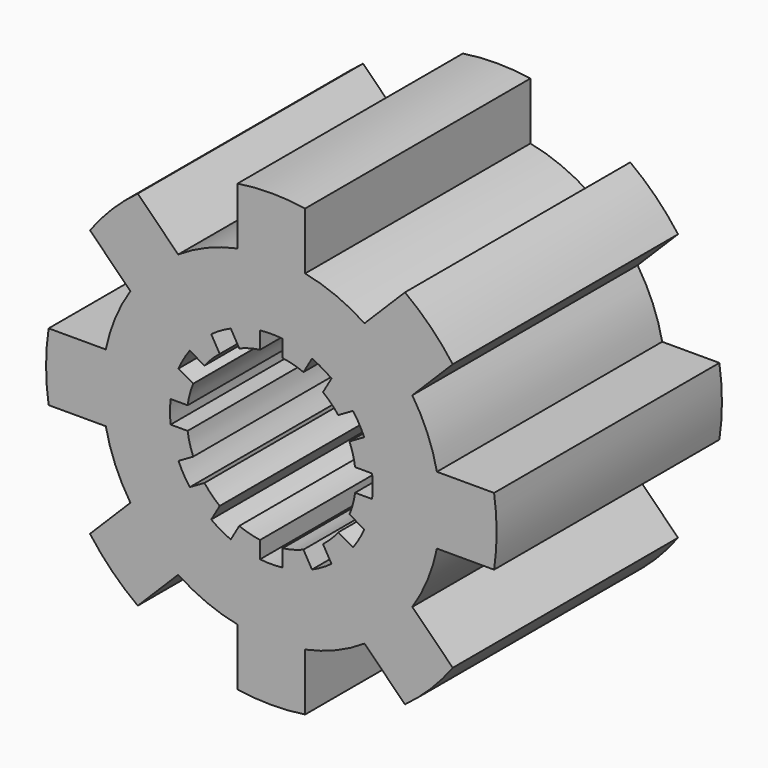
from build123d import *

# Parameters (mm, degrees)
F2_DEPTH = 25
F3_DEPTH = 25


with BuildPart() as f2:
    # F1 (on Front) → F2 (new body)
    with BuildSketch(Plane.XZ):
        with BuildLine():
            ThreePointArc((14.696938, -3), (14.924042, -1.507634), (15, 0))
            ThreePointArc((15, 0), (14.924042, 1.507634), (14.696938, 3))
            ThreePointArc((14.696938, 3), (13.858193, 5.740251), (12.513625, 8.270985))
            ThreePointArc((12.513625, 8.270985), (10.606602, 10.606602), (8.270985, 12.513625))
            ThreePointArc((8.270985, 12.513625), (5.740251, 13.858193), (3, 14.696938))
            ThreePointArc((3, 14.696938), (0, 15), (-3, 14.696938))
            ThreePointArc((-3, 14.696938), (-5.740251, 13.858193), (-8.270985, 12.513625))
            ThreePointArc((-8.270985, 12.513625), (-10.606602, 10.606602), (-12.513625, 8.270985))
            ThreePointArc((-12.513625, 8.270985), (-13.858193, 5.740251), (-14.696938, 3))
            ThreePointArc((-14.696938, 3), (-15, 0), (-14.696938, -3))
            ThreePointArc((-14.696938, -3), (-13.858193, -5.740251), (-12.513625, -8.270985))
            ThreePointArc((-12.513625, -8.270985), (-10.606602, -10.606602), (-8.270985, -12.513625))
            ThreePointArc((-8.270985, -12.513625), (-5.740251, -13.858193), (-3, -14.696938))
            ThreePointArc((-3, -14.696938), (0, -15), (3, -14.696938))
            ThreePointArc((3, -14.696938), (5.740251, -13.858193), (8.270985, -12.513625))
            ThreePointArc((8.270985, -12.513625), (10.606602, -10.606602), (12.513625, -8.270985))
            ThreePointArc((12.513625, -8.270985), (13.858193, -5.740251), (14.696938, -3))
        make_face()
        with BuildLine():
            ThreePointArc((-12.513625, 8.270985), (-10.606602, 10.606602), (-8.270985, 12.513625))
            Line((-8.270985, 12.513625), (-11.860811, 16.103452))
            ThreePointArc((-11.860811, 16.103452), (-14.142136, 14.142136), (-16.103452, 11.860811))
            Line((-16.103452, 11.860811), (-12.513625, 8.270985))
        make_face()
        with BuildLine():
            ThreePointArc((-14.696938, -3), (-15, 0), (-14.696938, 3))
            Line((-14.696938, 3), (-19.77372, 3))
            ThreePointArc((-19.77372, 3), (-20, 0), (-19.77372, -3))
            Line((-19.77372, -3), (-14.696938, -3))
        make_face()
        with BuildLine():
            Line((-11.860811, -16.103452), (-8.270985, -12.513625))
            ThreePointArc((-8.270985, -12.513625), (-10.606602, -10.606602), (-12.513625, -8.270985))
            Line((-12.513625, -8.270985), (-16.103452, -11.860811))
            ThreePointArc((-16.103452, -11.860811), (-14.142136, -14.142136), (-11.860811, -16.103452))
        make_face()
        with BuildLine():
            Line((3, -19.77372), (3, -14.696938))
            ThreePointArc((3, -14.696938), (0, -15), (-3, -14.696938))
            Line((-3, -14.696938), (-3, -19.77372))
            ThreePointArc((-3, -19.77372), (0, -20), (3, -19.77372))
        make_face()
        with BuildLine():
            Line((16.103452, -11.860811), (12.513625, -8.270985))
            ThreePointArc((12.513625, -8.270985), (10.606602, -10.606602), (8.270985, -12.513625))
            Line((8.270985, -12.513625), (11.860811, -16.103452))
            ThreePointArc((11.860811, -16.103452), (14.142136, -14.142136), (16.103452, -11.860811))
        make_face()
        with BuildLine():
            ThreePointArc((14.696938, 3), (14.924042, 1.507634), (15, 0))
            ThreePointArc((15, 0), (14.924042, -1.507634), (14.696938, -3))
            Line((14.696938, -3), (19.77372, -3))
            ThreePointArc((19.77372, -3), (20, 0), (19.77372, 3))
            Line((19.77372, 3), (14.696938, 3))
        make_face()
        with BuildLine():
            ThreePointArc((8.270985, 12.513625), (10.606602, 10.606602), (12.513625, 8.270985))
            Line((12.513625, 8.270985), (16.103452, 11.860811))
            ThreePointArc((16.103452, 11.860811), (14.142136, 14.142136), (11.860811, 16.103452))
            Line((11.860811, 16.103452), (8.270985, 12.513625))
        make_face()
        with BuildLine():
            ThreePointArc((-3, 14.696938), (0, 15), (3, 14.696938))
            Line((3, 14.696938), (3, 19.77372))
            ThreePointArc((3, 19.77372), (0, 20), (-3, 19.77372))
            Line((-3, 19.77372), (-3, 14.696938))
        make_face()
    extrude(amount=F2_DEPTH)

    # F0 (on Front) → F3 (cut)
    with BuildSketch(Plane.XZ):
        with BuildLine():
            Line((-5.338161, 7.245967), (-4.582543, 5.937197))
            ThreePointArc((-4.582543, 5.937197), (-5.303301, 5.303301), (-5.937197, 4.582543))
            Line((-5.937197, 4.582543), (-7.245967, 5.338161))
            ThreePointArc((-7.245967, 5.338161), (-7.794229, 4.5), (-8.245967, 3.606111))
            Line((-8.245967, 3.606111), (-6.937197, 2.850492))
            ThreePointArc((-6.937197, 2.850492), (-7.244444, 1.941143), (-7.433034, 1))
            Line((-7.433034, 1), (-8.944272, 1))
            ThreePointArc((-8.944272, 1), (-9, 0), (-8.944272, -1))
            Line((-8.944272, -1), (-7.433034, -1))
            ThreePointArc((-7.433034, -1), (-7.244444, -1.941143), (-6.937197, -2.850492))
            Line((-6.937197, -2.850492), (-8.245967, -3.606111))
            ThreePointArc((-8.245967, -3.606111), (-7.794229, -4.5), (-7.245967, -5.338161))
            Line((-7.245967, -5.338161), (-5.937197, -4.582543))
            ThreePointArc((-5.937197, -4.582543), (-5.303301, -5.303301), (-4.582543, -5.937197))
            Line((-4.582543, -5.937197), (-5.338161, -7.245967))
            ThreePointArc((-5.338161, -7.245967), (-4.5, -7.794229), (-3.606111, -8.245967))
            Line((-3.606111, -8.245967), (-2.850492, -6.937197))
            ThreePointArc((-2.850492, -6.937197), (-1.941143, -7.244444), (-1, -7.433034))
            Line((-1, -7.433034), (-1, -8.944272))
            ThreePointArc((-1, -8.944272), (0, -9), (1, -8.944272))
            Line((1, -8.944272), (1, -7.433034))
            ThreePointArc((1, -7.433034), (1.941143, -7.244444), (2.850492, -6.937197))
            Line((2.850492, -6.937197), (3.606111, -8.245967))
            ThreePointArc((3.606111, -8.245967), (4.5, -7.794229), (5.338161, -7.245967))
            Line((5.338161, -7.245967), (4.582543, -5.937197))
            ThreePointArc((4.582543, -5.937197), (5.303301, -5.303301), (5.937197, -4.582543))
            Line((5.937197, -4.582543), (7.245967, -5.338161))
            ThreePointArc((7.245967, -5.338161), (7.794229, -4.5), (8.245967, -3.606111))
            Line((8.245967, -3.606111), (6.937197, -2.850492))
            ThreePointArc((6.937197, -2.850492), (7.244444, -1.941143), (7.433034, -1))
            Line((7.433034, -1), (8.944272, -1))
            ThreePointArc((8.944272, -1), (9, 0), (8.944272, 1))
            Line((8.944272, 1), (7.433034, 1))
            ThreePointArc((7.433034, 1), (7.244444, 1.941143), (6.937197, 2.850492))
            Line((6.937197, 2.850492), (8.245967, 3.606111))
            ThreePointArc((8.245967, 3.606111), (7.794229, 4.5), (7.245967, 5.338161))
            Line((7.245967, 5.338161), (5.937197, 4.582543))
            ThreePointArc((5.937197, 4.582543), (5.303301, 5.303301), (4.582543, 5.937197))
            Line((4.582543, 5.937197), (5.338161, 7.245967))
            ThreePointArc((5.338161, 7.245967), (4.5, 7.794229), (3.606111, 8.245967))
            Line((3.606111, 8.245967), (2.850492, 6.937197))
            ThreePointArc((2.850492, 6.937197), (1.941143, 7.244444), (1, 7.433034))
            Line((1, 7.433034), (1, 8.944272))
            ThreePointArc((1, 8.944272), (0, 9), (-1, 8.944272))
            Line((-1, 8.944272), (-1, 7.433034))
            ThreePointArc((-1, 7.433034), (-1.941143, 7.244444), (-2.850492, 6.937197))
            Line((-2.850492, 6.937197), (-3.606111, 8.245967))
            ThreePointArc((-3.606111, 8.245967), (-4.5, 7.794229), (-5.338161, 7.245967))
        make_face()
    extrude(amount=F3_DEPTH, mode=Mode.SUBTRACT)


solid = f2.part
